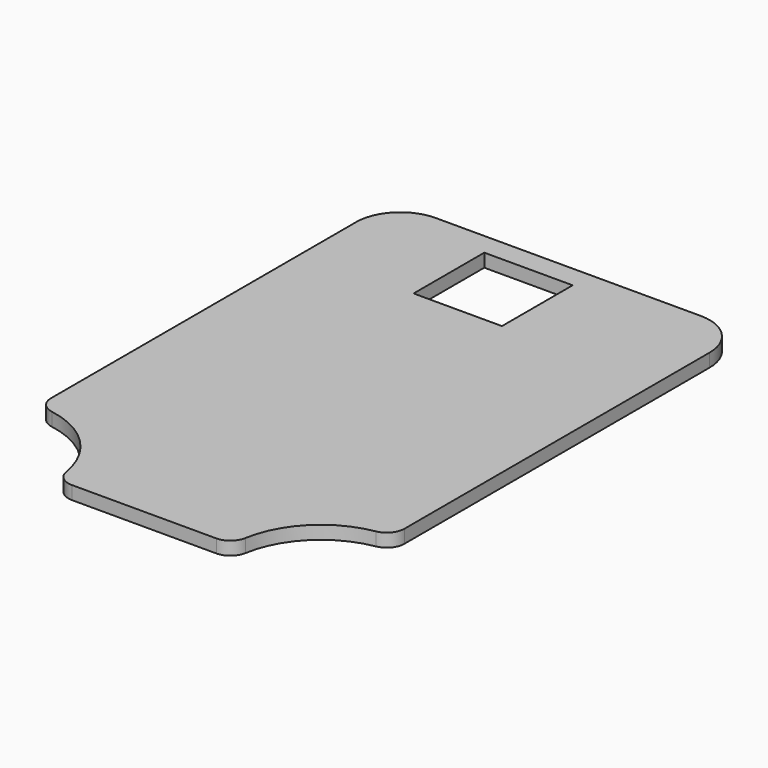
from build123d import *

# Parameters (mm, degrees)
F0_W     = 25.4
F0_H     = 25.4
F1_DEPTH = 3.81
F2_R     = 5.08
F3_R     = 5.08
F4_R     = 12.7


with BuildPart() as f1:
    # F0 (on Top) → F1 (new body)
    with BuildSketch(Plane.XY):
        with BuildLine():
            Line((-12.7, 96.302761), (-57.15, 96.302761))
            Line((-57.15, 96.302761), (-57.15, 89.952761))
            Line((-57.15, 89.952761), (-57.15, 83.602761))
            Line((-57.15, 83.602761), (-57.15, 70.902761))
            Line((-57.15, 70.902761), (-57.15, -30.697239))
            ThreePointArc((-57.15, -30.697239), (-39.189488, -38.136727), (-31.75, -56.097239))
            Line((-31.75, -56.097239), (19.05, -56.097239))
            ThreePointArc((19.05, -56.097239), (26.489488, -38.136727), (44.45, -30.697239))
            Line((44.45, -30.697239), (44.45, 96.302761))
            Line((44.45, 96.302761), (0, 96.302761))
            Line((0, 96.302761), (-12.7, 96.302761))
        make_face()
        with Locations((-12.7, 77.252761)):
            Rectangle(F0_W, F0_H, mode=Mode.SUBTRACT)
        with BuildLine():
            Line((-12.7, 96.302761), (-57.15, 96.302761))
            Line((-57.15, 96.302761), (-57.15, 89.952761))
            Line((-57.15, 89.952761), (-57.15, 83.602761))
            Line((-57.15, 83.602761), (-57.15, 70.902761))
            Line((-57.15, 70.902761), (-57.15, -30.697239))
            ThreePointArc((-57.15, -30.697239), (-39.189488, -38.136727), (-31.75, -56.097239))
            Line((-31.75, -56.097239), (19.05, -56.097239))
            ThreePointArc((19.05, -56.097239), (26.489488, -38.136727), (44.45, -30.697239))
            Line((44.45, -30.697239), (44.45, 96.302761))
            Line((44.45, 96.302761), (0, 96.302761))
            Line((0, 96.302761), (-12.7, 96.302761))
        make_face()
        with Locations((-12.7, 77.252761)):
            Rectangle(F0_W, F0_H, mode=Mode.SUBTRACT)
    extrude(amount=F1_DEPTH)

    # F2
    f2_edges = [f1.edges().sort_by_distance(p)[0] for p in [
        (-57.15, -30.697239, 1.905),
        (-31.75, -56.097239, 1.905),
    ]]
    fillet(f2_edges, radius=F2_R)

    # F3
    f3_edges = [f1.edges().sort_by_distance(p)[0] for p in [
        (44.45, -30.697239, 1.905),
        (19.05, -56.097239, 1.905),
    ]]
    fillet(f3_edges, radius=F3_R)

    # F4
    f4_edges = [f1.edges().sort_by_distance(p)[0] for p in [
        (-57.15, 96.302761, 1.905),
        (44.45, 96.302761, 1.905),
    ]]
    fillet(f4_edges, radius=F4_R)


solid = f1.part
